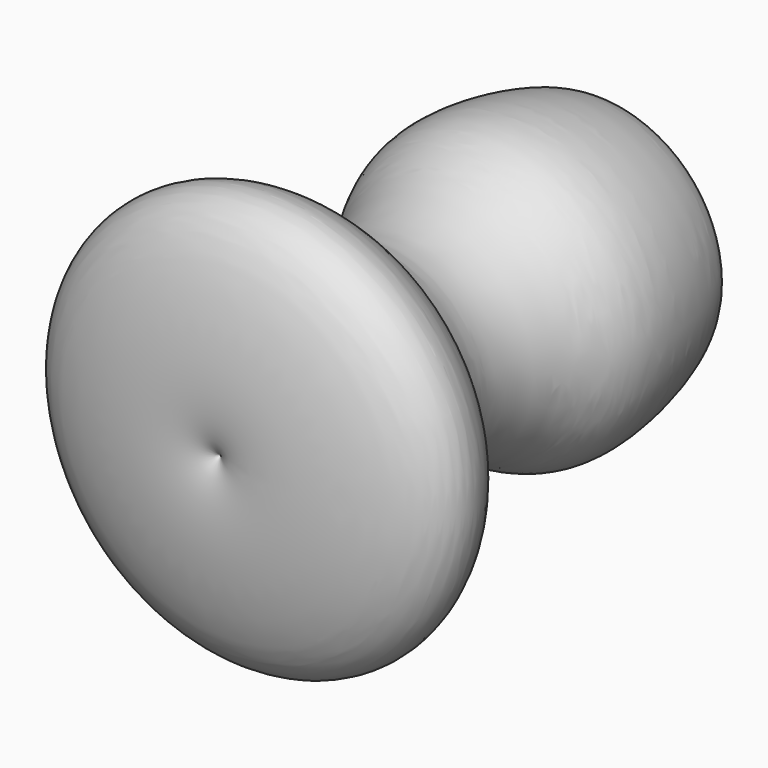
from build123d import *


with BuildPart() as f1:
    # F0 (on Top) → F1 (revolve)
    with BuildSketch(Plane.XY):
        with BuildLine():
            add(Edge.make_bspline(
                [(0, 26.6943499446), (0.5265979128, 36.3553883878), (9.4553525159, 48.1559767143), (18.8533245004, 49.4125270012), (26.6710901519, 46.6311251), (31.915856414, 42.9365302257), (38.6442708301, 13.5836973136), (28.3610426914, 0.9112601081), (22.8313775482, -17.2302688735), (30.1672411173, -34.1240642007), (42.3225381898, -40.4217856806), (52.4739182015, -55.1246712442), (42.880167249, -70.5301730347), (5.7375843682, -74.1996104375), (0.3347027019, -69.1310230315), (0, -68.680344847)],
                knots=[0, 0, 0, 0, 0.046329793, 0.0745060685, 0.1010427422, 0.1249483907, 0.175657687, 0.2149927973, 0.2558038429, 0.2954438443, 0.3313900708, 0.3690948223, 0.4066642219, 0.4672492297, 0.4728798656, 0.4728798656, 0.4728798656, 0.4728798656], degree=3))
            Line((0, 26.6943499446), (0, 23.406187509))
            add(Edge.make_bspline(
                [(0, -65.1351585984), (1.9799303644, -63.321815308), (14.7279831095, -65.9172193288), (28.135293252, -62.0348475282), (41.2049879241, -57.8999364385), (33.0945910414, -47.019931981), (21.446959108, -38.9890664213), (13.9535223154, -22.9006812647), (18.4330315221, -5.1896360545), (27.4499372533, 12.3287839739), (26.4853905117, 27.1627003759), (23.4202658557, 38.6308203089), (17.5379553706, 42.2114102079), (6.4195644563, 42.6639642287), (7.7311169872, -4.1939795821), (0.390350924, 15.5406188865), (0, 23.406187509)],
                knots=[0.4889106224, 0.4889106224, 0.4889106224, 0.4889106224, 0.5243818464, 0.563328053, 0.5938461782, 0.6239761476, 0.6615327907, 0.7006483914, 0.7415561321, 0.7843650956, 0.8216099621, 0.8538873387, 0.8781100492, 0.9044740113, 0.9581947849, 0.9948403077, 0.9948403077, 0.9948403077, 0.9948403077], degree=3))
            Line((0, -65.1351585984), (0, -68.680344847))
        make_face()
    revolve(axis=Axis((0, 0.0923909247, 0), (0, -1, 0)))


solid = f1.part
